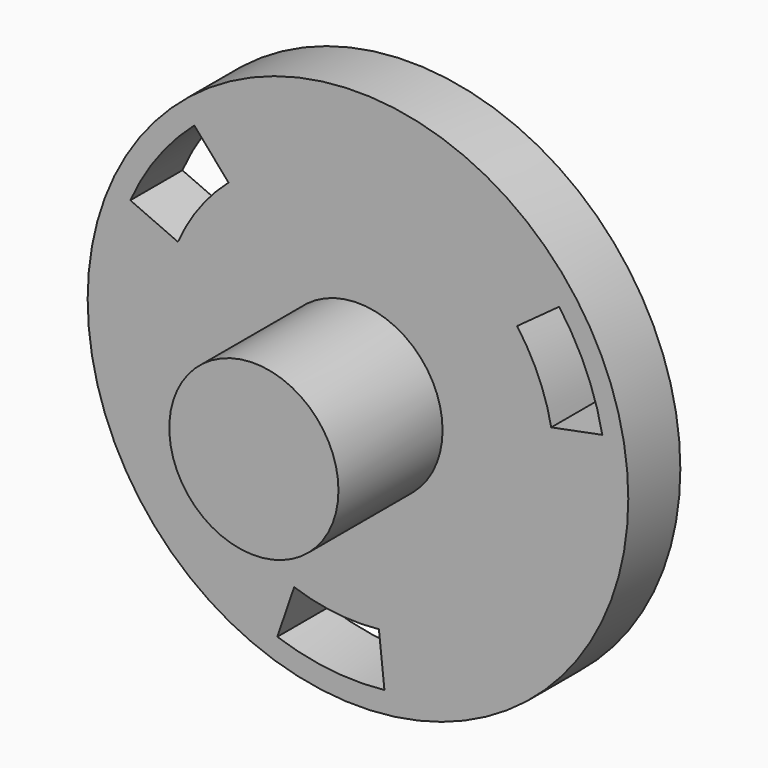
from build123d import *

# Parameters (mm, degrees)
F0_R     = 6.5
F1_DEPTH = 10
F2_R     = 20.7743809462
F3_DEPTH = 5
F5_DEPTH = 25


with BuildPart() as f1:
    # F0 (on Front) → F1 (new body)
    with BuildSketch(Plane.XZ):
        Circle(F0_R)
    extrude(amount=F1_DEPTH)

    # F2 (on Front) → F3 (join)
    with BuildSketch(Plane.XZ):
        Circle(F2_R)
    extrude(amount=-F3_DEPTH)

    # F4 (on face) → F5 (cut)
    with BuildSketch(Plane.XZ):
        with BuildLine():
            Line((-9.9486096802, 11.406318953), (-12.577847041, 14.4208024743))
            ThreePointArc((-12.577847041, 14.4208024743), (-15.4009347645, 11.3566275174), (-17.493895192, 7.7540577249))
            Line((-17.493895192, 7.7540577249), (-13.8370211121, 6.1331715588))
            ThreePointArc((-13.8370211121, 6.1331715588), (-12.1815671778, 8.9826704114), (-9.9486096802, 11.406318953))
        make_face()
        with BuildLine():
            Line((14.8524668171, 2.9125892389), (18.7777048063, 3.6823338253))
            ThreePointArc((18.7777048063, 3.6823338253), (17.5355953137, 7.6592869894), (15.4621585682, 11.273128785))
            Line((15.4621585682, 11.273128785), (12.2299929317, 8.9166260164))
            ThreePointArc((12.2299929317, 8.9166260164), (13.870004359, 6.0582114282), (14.8524668171, 2.9125892389))
        make_face()
        with BuildLine():
            ThreePointArc((-6.1998577652, -18.1031362996), (-2.1346605491, -19.0159145068), (2.0317366238, -19.0271865099))
            Line((2.0317366238, -19.0271865099), (1.6070281804, -15.0497975752))
            ThreePointArc((1.6070281804, -15.0497975752), (-1.6884371812, -15.0408818396), (-4.9038571369, -14.3189081919))
            Line((-4.9038571369, -14.3189081919), (-6.1998577652, -18.1031362996))
        make_face()
    extrude(amount=-F5_DEPTH, mode=Mode.SUBTRACT)


solid = f1.part
